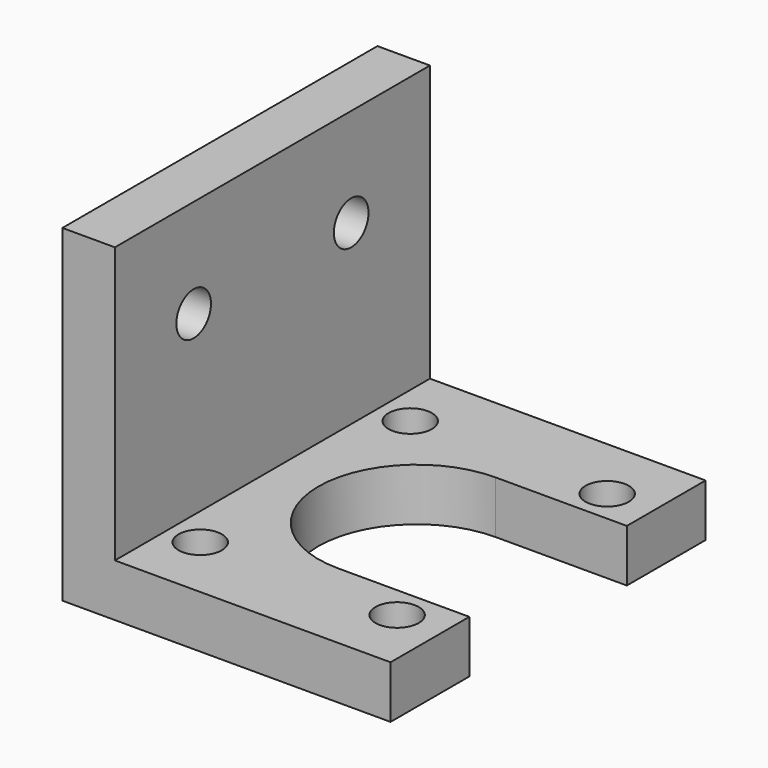
from build123d import *

# Parameters (mm, degrees)
F1_DEPTH = 8
F0_W     = 8
F0_H     = 60
F2_DEPTH = 50
F4_D     = 6.6
F4_DEPTH = 17.25
F4_TIP   = 1.9828400428
F5_D     = 6.6
F5_DEPTH = 17.25
F5_TIP   = 1.9828400428


with BuildPart() as f1:
    # F0 (on Top) → F1 (new body)
    with BuildSketch(Plane.XY):
        with BuildLine():
            Line((-17, -30), (25, -30))
            Line((25, -30), (25, -15))
            Line((25, -15), (5, -15))
            ThreePointArc((5, -15), (-10, 0), (5, 15))
            Line((5, 15), (25, 15))
            Line((25, 15), (25, 30))
            Line((25, 30), (-17, 30))
            Line((-17, 30), (-17, -30))
        make_face()
    extrude(amount=F1_DEPTH)

    # F0 (on Top) → F2 (join)
    with BuildSketch(Plane.XY):
        with Locations((-21, 0)):
            Rectangle(F0_W, F0_H)
    extrude(amount=F2_DEPTH)

    # F4
    with Locations(Plane(origin=(0, 0, 0), x_dir=(1, 0, 0), z_dir=(0, 0, -1))):
        with Locations((18, 20), (-12, 20), (18, -20), (-12, -20)):
            Hole(F4_D / 2, depth=F4_DEPTH)
            with Locations((0, 0, -(F4_DEPTH + F4_TIP / 2))):  # 118° drill point
                Cone(0, F4_D / 2, F4_TIP, mode=Mode.SUBTRACT)

    # F5
    with Locations(Plane.YZ.offset(-17)):
        with Locations((-15, 35), (15, 35)):
            Hole(F5_D / 2, depth=F5_DEPTH)
            with Locations((0, 0, -(F5_DEPTH + F5_TIP / 2))):  # 118° drill point
                Cone(0, F5_D / 2, F5_TIP, mode=Mode.SUBTRACT)


solid = f1.part
